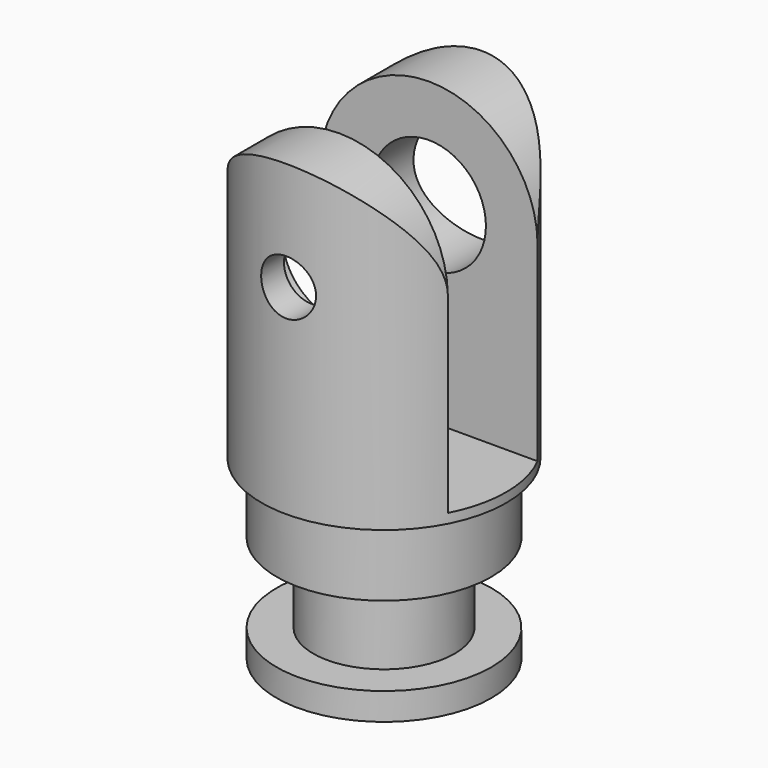
from build123d import *

# Parameters (mm, degrees)
F2_W           = 8.25
F2_H           = 22
F3_DEPTH       = 9.001
F3_DEPTH_BACK  = 9.001
F5_D           = 4.0386
F5_DEPTH       = 4.876
F6_D           = 8.35
F6_DEPTH       = 1.25
F6_TIP         = 2.5085930844
F8_D           = 8.4
F8_DEPTH       = 4.8760001
F10_DEPTH      = 9.0010001
F10_DEPTH_BACK = 9.0010001007


with BuildPart() as f1:
    # F0 (on Front) → F1 (revolve)
    with BuildSketch(Plane.XZ):
        Polygon((9, 0), (0, 0), (0, -35.7), (7.9, -35.7), (7.9, -33.7), (5.2, -33.7), (5.2, -27.85), (7.9, -27.85), (7.9, -22.7), (9, -22.7), align=None)
    revolve(axis=Axis((0, 0, -17.85), (0, 0, 1)))

    # F2 (on Right) → F3 (cut, two sides)
    with BuildSketch(Plane.YZ) as f3_sk:
        with Locations((0, -11)):
            Rectangle(F2_W, F2_H)
    extrude(amount=-F3_DEPTH, mode=Mode.SUBTRACT)
    extrude(f3_sk.sketch, amount=F3_DEPTH_BACK, mode=Mode.SUBTRACT)

    # F5 (through all, one way)
    with BuildSketch(Plane(origin=(0, -4.125, 0), x_dir=(-1, 0, 0), z_dir=(0, 1, 0))):
        with Locations((0, -8)):
            Circle(F5_D / 2)
    extrude(amount=-F5_DEPTH, mode=Mode.SUBTRACT)

    # F6 (one way)
    with BuildSketch(Plane(origin=(0, -4.125, 0), x_dir=(-1, 0, 0), z_dir=(0, 1, 0))):
        with Locations((0, -8)):
            Circle(F6_D / 2)
    extrude(amount=-F6_DEPTH, mode=Mode.SUBTRACT)
    with Locations(Plane(origin=(0, -4.125, 0), x_dir=(-1, 0, 0), z_dir=(0, 1, 0))):
        with Locations((0, -8)):
            with Locations((0, 0, -(F6_DEPTH + F6_TIP / 2))):  # 118° drill point
                Cone(0, F6_D / 2, F6_TIP, mode=Mode.SUBTRACT)

    # F8 (through all, one way)
    with BuildSketch(Plane.XZ.offset(-4.125)):
        with Locations((0, -8)):
            Circle(F8_D / 2)
    extrude(amount=-F8_DEPTH, mode=Mode.SUBTRACT)

    # F9 (on Front) → F10 (cut, two sides)
    with BuildSketch(Plane.XZ) as f10_sk:
        with BuildLine():
            ThreePointArc((-8, -8), (0, 0), (8, -8))
            Line((8, -8), (8, 2.4616862277))
            Line((8, 2.4616862277), (-8, 2.4616862277))
            Line((-8, 2.4616862277), (-8, -8))
        make_face()
    extrude(amount=-F10_DEPTH, mode=Mode.SUBTRACT)
    extrude(f10_sk.sketch, amount=F10_DEPTH_BACK, mode=Mode.SUBTRACT)


solid = f1.part
